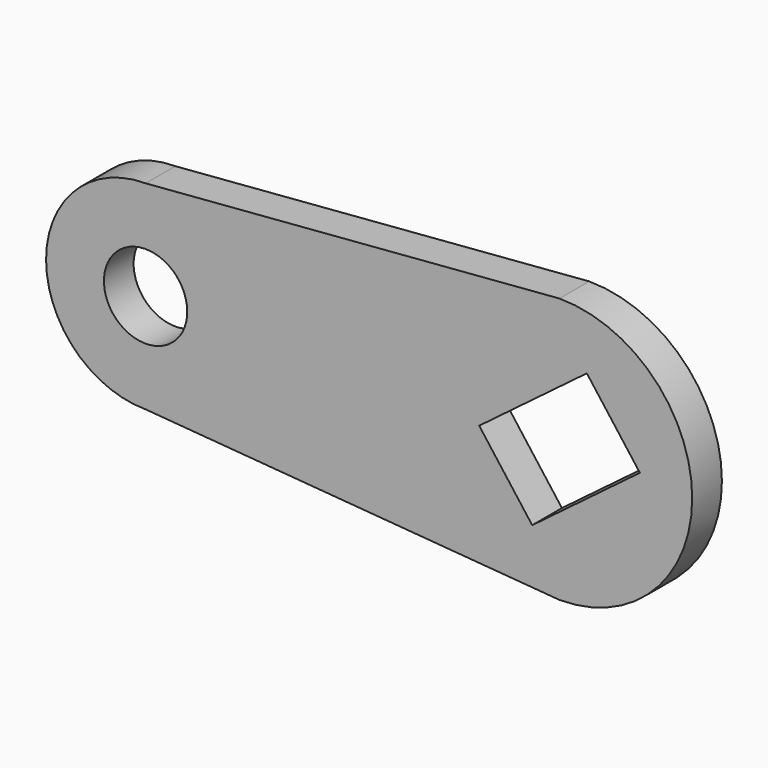
from build123d import *

# Parameters (mm, degrees)
F0_R     = 3.9878
F1_DEPTH = 3.556


with BuildPart() as f1:
    # F0 (on Front) → F1 (new body)
    with BuildSketch(Plane.XZ):
        with BuildLine():
            Line((39.624, 12.7), (0, 9.525))
            ThreePointArc((0, 9.525), (-9.525, 0), (0, -9.525))
            Line((0, -9.525), (39.624, -12.7))
            ThreePointArc((39.624, -12.7), (52.324, 0), (39.624, 12.7))
        make_face()
        Circle(F0_R, mode=Mode.SUBTRACT)
        Polygon((37.009016, -7.250037), (31.93403, -0.515303), (42.238984, 7.250037), (47.31397, 0.515303), align=None, mode=Mode.SUBTRACT)
    extrude(amount=F1_DEPTH)


solid = f1.part
